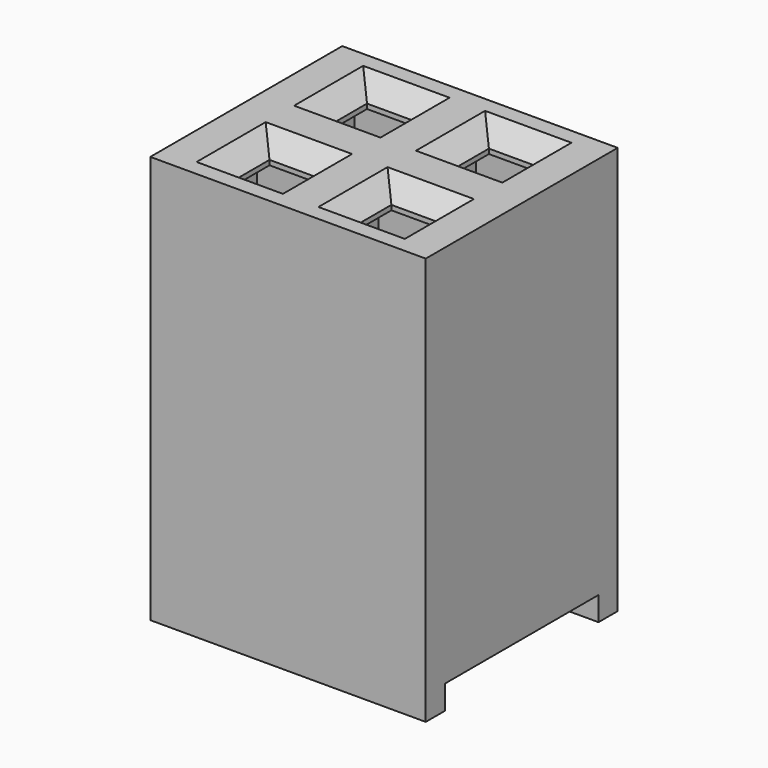
from build123d import *

# Parameters (mm, degrees)
SKETCH001_W      = 1.85
SKETCH001_H      = 1.4
EXTRUDE001_DEPTH = 8
SKETCH002_W      = 1
SKETCH002_H      = 1
EXTRUDE002_DEPTH = 9
SKETCH013_W      = 4
SKETCH013_H      = 4
EXTRUDE013_DEPTH = 0.5
SKETCH012_W      = 3.2
SKETCH012_H      = 5
EXTRUDE012_DEPTH = 8.5
CHAMFER003_SIZE  = 0.4
ARRAY006_X_COUNT = 2
ARRAY006_X_PITCH = 2.54


with BuildPart() as extrude001:
    # Sketch001 → Extrude001 (new body)
    with BuildSketch(Plane.XY):
        Rectangle(SKETCH001_W, SKETCH001_H)
    extrude(amount=EXTRUDE001_DEPTH)


with BuildPart() as fusion006:
    # Sketch002 → Extrude002 (new body)
    with BuildSketch(Plane.XY):
        Rectangle(SKETCH002_W, SKETCH002_H)
    extrude(amount=EXTRUDE002_DEPTH)

    # Fusion006: union Extrude001
    add(extrude001.part)


with BuildPart() as fusion006_1:
    # Fusion006 placement: moved
    add(fusion006.part.moved(Location((0, 1.27, 0))))


with BuildPart() as part_mirroring003:
    # Part__Mirroring003: instance of Fusion006
    add(fusion006_1.part.mirror(Plane(origin=(0, 0, 0), x_dir=(1, 0, 0), z_dir=(0, 1, 0))))


with BuildPart() as fusion007:
    # Sketch013 → Extrude013 (new body)
    with BuildSketch(Plane.XY):
        Rectangle(SKETCH013_W, SKETCH013_H)
    extrude(amount=EXTRUDE013_DEPTH)

    # Fusion007: union Part__Mirroring003, Fusion006
    add(part_mirroring003.part)
    add(fusion006_1.part)


with BuildPart() as body003:
    # Sketch012 → Extrude012 (new body)
    with BuildSketch(Plane.XY):
        Rectangle(SKETCH012_W, SKETCH012_H)
    extrude(amount=EXTRUDE012_DEPTH)

    # Cut003: cut Fusion007
    add(fusion007.part, mode=Mode.SUBTRACT)

    # Chamfer003
    chamfer003_edges = [body003.edges().sort_by_distance(p)[0] for p in [
        (0, -0.77, 8.5),
        (-0.5, -1.27, 8.5),
        (0, -1.77, 8.5),
        (0.5, -1.27, 8.5),
        (0.5, 1.27, 8.5),
        (0, 1.77, 8.5),
        (-0.5, 1.27, 8.5),
        (0, 0.77, 8.5),
    ]]
    chamfer(chamfer003_edges, length=CHAMFER003_SIZE)

    # Array006 X: body003 ×2


with BuildPart() as body003_1:
    add(body003.part)
    with Locations(*[(i * ARRAY006_X_PITCH, 0, 0) for i in range(1, ARRAY006_X_COUNT)]):
        add(body003.part)


solid = body003_1.part
